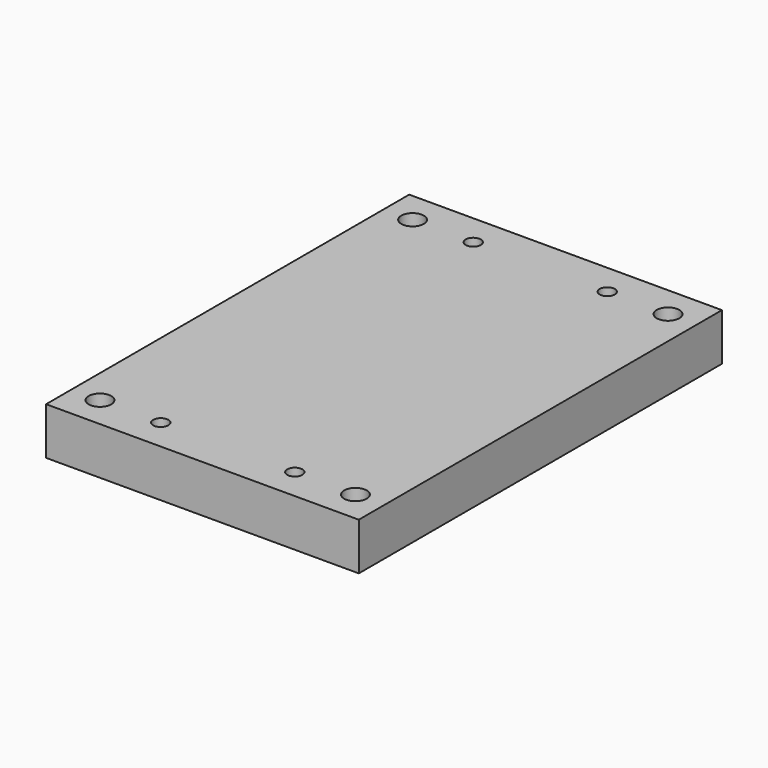
from build123d import *

# Parameters (mm, degrees)
F0_W     = 60.96
F0_H     = 6.35
F1_DEPTH = 21
F2_R     = 1.016
F3_R     = 1.516992
F4_DEPTH = 6.35


with BuildPart() as f1:
    # F0 (on Right) → F1 (new body, symmetric)
    with BuildSketch(Plane.YZ):
        Rectangle(F0_W, F0_H)
    extrude(amount=F1_DEPTH, both=True)

    # F2 (on face) + F3 (on face) → F4 (cut, through all)
    with BuildSketch(Plane.XY.offset(3.175)):
        with Locations((-9, -26.23)):
            Circle(F2_R)
        with Locations((9, -26.23)):
            Circle(F2_R)
        with Locations((9, 26.23)):
            Circle(F2_R)
        with Locations((-9, 26.23)):
            Circle(F2_R)
    with BuildSketch(Plane.XY.offset(3.175)):
        with Locations((-17.153514, 26.2382)):
            Circle(F3_R)
        with Locations((17.153514, 26.2382)):
            Circle(F3_R)
        with Locations((17.153514, -26.2382)):
            Circle(F3_R)
        with Locations((-17.153514, -26.2382)):
            Circle(F3_R)
    extrude(amount=-F4_DEPTH, mode=Mode.SUBTRACT)


solid = f1.part
